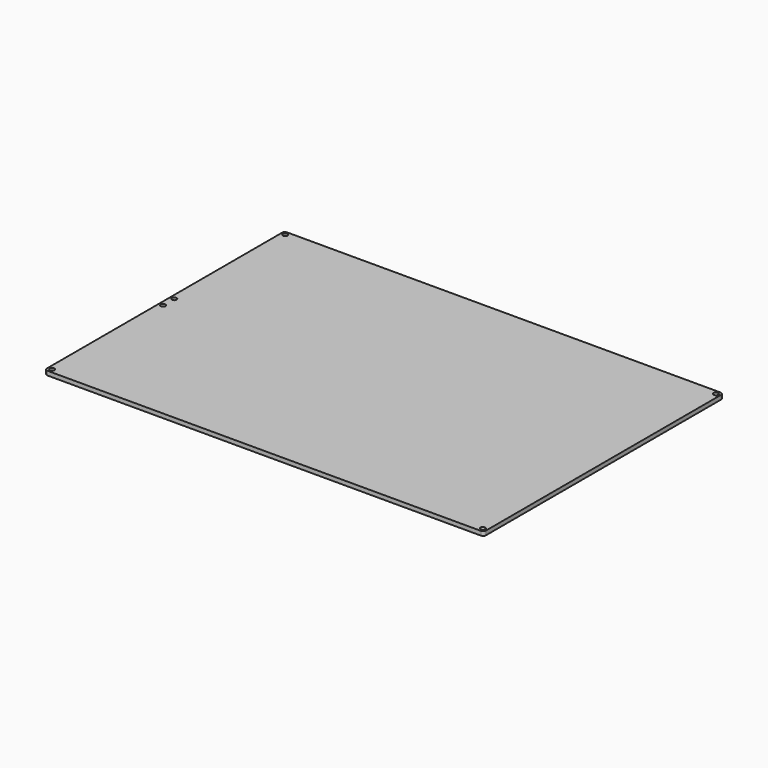
from build123d import *

# Parameters (mm, degrees)
F0_R     = 1.7
F1_DEPTH = 3


with BuildPart() as f1:
    # F0 (on Top) → F1 (new body)
    with BuildSketch(Plane.XY):
        with BuildLine():
            Line((155.5, 107.5), (-155.5, 107.5))
            ThreePointArc((-155.5, 107.5), (-156.914214, 106.914214), (-157.5, 105.5))
            Line((-157.5, 105.5), (-157.5, -105.5))
            ThreePointArc((-157.5, -105.5), (-156.914214, -106.914214), (-155.5, -107.5))
            Line((-155.5, -107.5), (155.5, -107.5))
            ThreePointArc((155.5, -107.5), (156.914214, -106.914214), (157.5, -105.5))
            Line((157.5, -105.5), (157.5, 105.5))
            ThreePointArc((157.5, 105.5), (156.914214, 106.914214), (155.5, 107.5))
        make_face()
        with Locations((-154.5, -104.5)):
            Circle(F0_R, mode=Mode.SUBTRACT)
        with Locations((-154.5, -5)):
            Circle(F0_R, mode=Mode.SUBTRACT)
        with Locations((154.5, -104.5)):
            Circle(F0_R, mode=Mode.SUBTRACT)
        with Locations((-154.5, 5)):
            Circle(F0_R, mode=Mode.SUBTRACT)
        with Locations((-154.5, 104.5)):
            Circle(F0_R, mode=Mode.SUBTRACT)
        with Locations((154.5, 104.5)):
            Circle(F0_R, mode=Mode.SUBTRACT)
    extrude(amount=F1_DEPTH)


solid = f1.part
